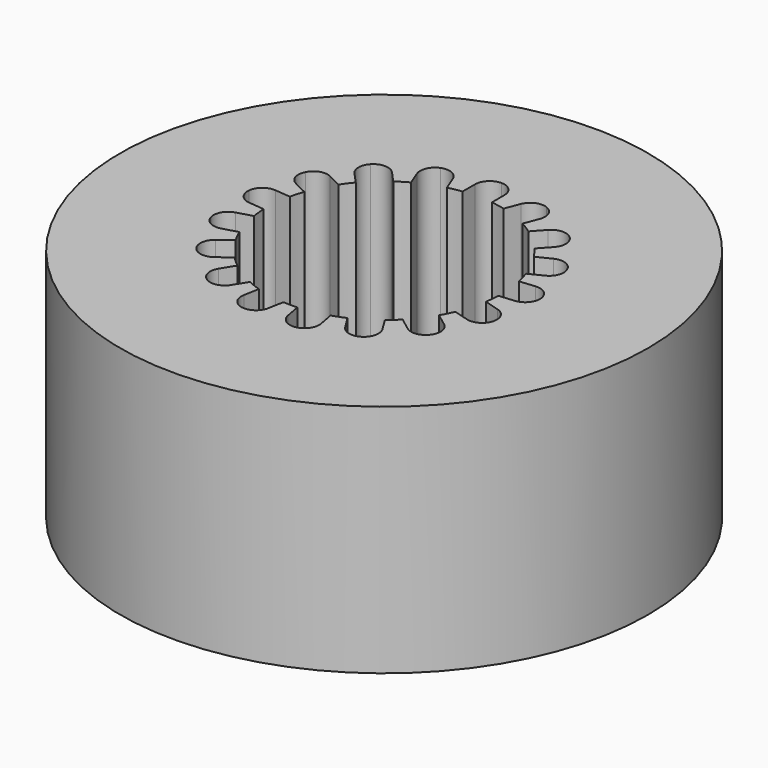
from build123d import *

# Parameters (mm, degrees)
F0_R     = 4.49904
F1_DEPTH = 4


with BuildPart() as f1:
    # F0 (on Top) → F1 (new body)
    with BuildSketch(Plane.XY):
        with Locations((-0.014088, -0.045997)):
            Circle(F0_R)
        with BuildLine():
            ThreePointArc((1.873632, 0.614697), (1.909564, 0.501329), (1.938694, 0.386026))
            Line((1.938694, 0.386026), (2.203247, 0.410541))
            ThreePointArc((2.203247, 0.410541), (2.386026, 0.353941), (2.475248, 0.184674))
            ThreePointArc((2.475248, 0.184674), (2.418648, 0.001895), (2.249381, -0.087326))
            Line((2.249381, -0.087326), (1.984828, -0.111841))
            ThreePointArc((1.984828, -0.111841), (1.977381, -0.230533), (1.962892, -0.348573))
            Line((1.962892, -0.348573), (2.218436, -0.421282))
            ThreePointArc((2.218436, -0.421282), (2.368426, -0.540087), (2.390476, -0.730154))
            ThreePointArc((2.390476, -0.730154), (2.271671, -0.880144), (2.081604, -0.902195))
            Line((2.081604, -0.902195), (1.82606, -0.829486))
            ThreePointArc((1.82606, -0.829486), (1.776239, -0.937473), (1.720087, -1.042308))
            Line((1.720087, -1.042308), (1.93211, -1.20242))
            ThreePointArc((1.93211, -1.20242), (2.028581, -1.36415), (1.984828, -1.547313))
            ThreePointArc((1.984828, -1.547313), (1.819226, -1.649054), (1.630792, -1.601429))
            Line((1.630792, -1.601429), (1.41877, -1.441317))
            ThreePointArc((1.41877, -1.441317), (1.333304, -1.524015), (1.243073, -1.601486))
            Line((1.243073, -1.601486), (1.382939, -1.827377))
            ThreePointArc((1.382939, -1.827377), (1.413744, -2.016223), (1.301993, -2.17154))
            ThreePointArc((1.301993, -2.17154), (1.113147, -2.202345), (0.95783, -2.090593))
            Line((0.95783, -2.090593), (0.817964, -1.864702))
            ThreePointArc((0.817964, -1.864702), (0.708396, -1.910941), (0.596272, -1.950586))
            Line((0.596272, -1.950586), (0.645092, -2.211749))
            ThreePointArc((0.645092, -2.211749), (0.605598, -2.39897), (0.445286, -2.503429))
            ThreePointArc((0.445286, -2.503429), (0.258065, -2.463936), (0.153605, -2.303624))
            Line((0.153605, -2.303624), (0.104786, -2.042461))
            ThreePointArc((0.104786, -2.042461), (-0.014088, -2.045997), (-0.132961, -2.042461))
            Line((-0.132961, -2.042461), (-0.181781, -2.303624))
            ThreePointArc((-0.181781, -2.303624), (-0.28624, -2.463936), (-0.473461, -2.503429))
            ThreePointArc((-0.473461, -2.503429), (-0.633773, -2.39897), (-0.673267, -2.211749))
            Line((-0.673267, -2.211749), (-0.624448, -1.950586))
            ThreePointArc((-0.624448, -1.950586), (-0.736571, -1.910941), (-0.84614, -1.864702))
            Line((-0.84614, -1.864702), (-0.986006, -2.090593))
            ThreePointArc((-0.986006, -2.090593), (-1.141322, -2.202345), (-1.330168, -2.17154))
            ThreePointArc((-1.330168, -2.17154), (-1.44192, -2.016223), (-1.411114, -1.827377))
            Line((-1.411114, -1.827377), (-1.271248, -1.601486))
            ThreePointArc((-1.271248, -1.601486), (-1.361479, -1.524015), (-1.446945, -1.441317))
            Line((-1.446945, -1.441317), (-1.658968, -1.601429))
            ThreePointArc((-1.658968, -1.601429), (-1.847401, -1.649054), (-2.013004, -1.547313))
            ThreePointArc((-2.013004, -1.547313), (-2.056756, -1.36415), (-1.960285, -1.20242))
            Line((-1.960285, -1.20242), (-1.748263, -1.042308))
            ThreePointArc((-1.748263, -1.042308), (-1.804414, -0.937473), (-1.854236, -0.829486))
            Line((-1.854236, -0.829486), (-2.10978, -0.902195))
            ThreePointArc((-2.10978, -0.902195), (-2.299846, -0.880144), (-2.418652, -0.730154))
            ThreePointArc((-2.418652, -0.730154), (-2.396601, -0.540087), (-2.246611, -0.421282))
            Line((-2.246611, -0.421282), (-1.991067, -0.348573))
            ThreePointArc((-1.991067, -0.348573), (-2.005556, -0.230533), (-2.013004, -0.111841))
            Line((-2.013004, -0.111841), (-2.277557, -0.087326))
            ThreePointArc((-2.277557, -0.087326), (-2.446823, 0.001895), (-2.503423, 0.184674))
            ThreePointArc((-2.503423, 0.184674), (-2.414201, 0.353941), (-2.231422, 0.410541))
            Line((-2.231422, 0.410541), (-1.966869, 0.386026))
            ThreePointArc((-1.966869, 0.386026), (-1.937739, 0.501329), (-1.901807, 0.614697))
            Line((-1.901807, 0.614697), (-2.13964, 0.733124))
            ThreePointArc((-2.13964, 0.733124), (-2.263982, 0.878126), (-2.246611, 1.068349))
            ThreePointArc((-2.246611, 1.068349), (-2.105122, 1.193314), (-1.91677, 1.180705))
            Line((-1.91677, 1.180705), (-1.678938, 1.062279))
            ThreePointArc((-1.678938, 1.062279), (-1.610122, 1.159273), (-1.535663, 1.252005))
            Line((-1.535663, 1.252005), (-1.714655, 1.448349))
            ThreePointArc((-1.714655, 1.448349), (-1.779903, 1.616773), (-1.714655, 1.785197))
            ThreePointArc((-1.714655, 1.785197), (-1.529903, 1.866773), (-1.345151, 1.785197))
            Line((-1.345151, 1.785197), (-1.166159, 1.588853))
            ThreePointArc((-1.166159, 1.588853), (-1.066952, 1.654438), (-0.964022, 1.71401))
            Line((-0.964022, 1.71401), (-1.059999, 1.961755))
            ThreePointArc((-1.059999, 1.961755), (-1.05558, 2.153046), (-0.917192, 2.285184))
            ThreePointArc((-0.917192, 2.285184), (-0.725901, 2.280764), (-0.593763, 2.142376))
            Line((-0.593763, 2.142376), (-0.497786, 1.894631))
            ThreePointArc((-0.497786, 1.894631), (-0.381587, 1.919949), (-0.264088, 1.938317))
            Line((-0.264088, 1.938317), (-0.264088, 2.204003))
            ThreePointArc((-0.264088, 2.204003), (-0.190864, 2.38078), (-0.014088, 2.454003))
            ThreePointArc((-0.014088, 2.454003), (0.162689, 2.38078), (0.235912, 2.204003))
            Line((0.235912, 2.204003), (0.235912, 1.938317))
            ThreePointArc((0.235912, 1.938317), (0.353411, 1.919949), (0.469611, 1.894631))
            Line((0.469611, 1.894631), (0.565588, 2.142376))
            ThreePointArc((0.565588, 2.142376), (0.697726, 2.280764), (0.889016, 2.285184))
            ThreePointArc((0.889016, 2.285184), (1.027405, 2.153046), (1.031824, 1.961755))
            Line((1.031824, 1.961755), (0.935847, 1.71401))
            ThreePointArc((0.935847, 1.71401), (1.038777, 1.654438), (1.137983, 1.588853))
            Line((1.137983, 1.588853), (1.316975, 1.785197))
            ThreePointArc((1.316975, 1.785197), (1.501728, 1.866773), (1.68648, 1.785197))
            ThreePointArc((1.68648, 1.785197), (1.751728, 1.616773), (1.68648, 1.448349))
            Line((1.68648, 1.448349), (1.507488, 1.252005))
            ThreePointArc((1.507488, 1.252005), (1.581947, 1.159273), (1.650762, 1.062279))
            Line((1.650762, 1.062279), (1.888595, 1.180705))
            ThreePointArc((1.888595, 1.180705), (2.076947, 1.193314), (2.218436, 1.068349))
            ThreePointArc((2.218436, 1.068349), (2.235807, 0.878126), (2.111464, 0.733124))
            Line((2.111464, 0.733124), (1.873632, 0.614697))
        make_face(mode=Mode.SUBTRACT)
    extrude(amount=F1_DEPTH)


solid = f1.part
